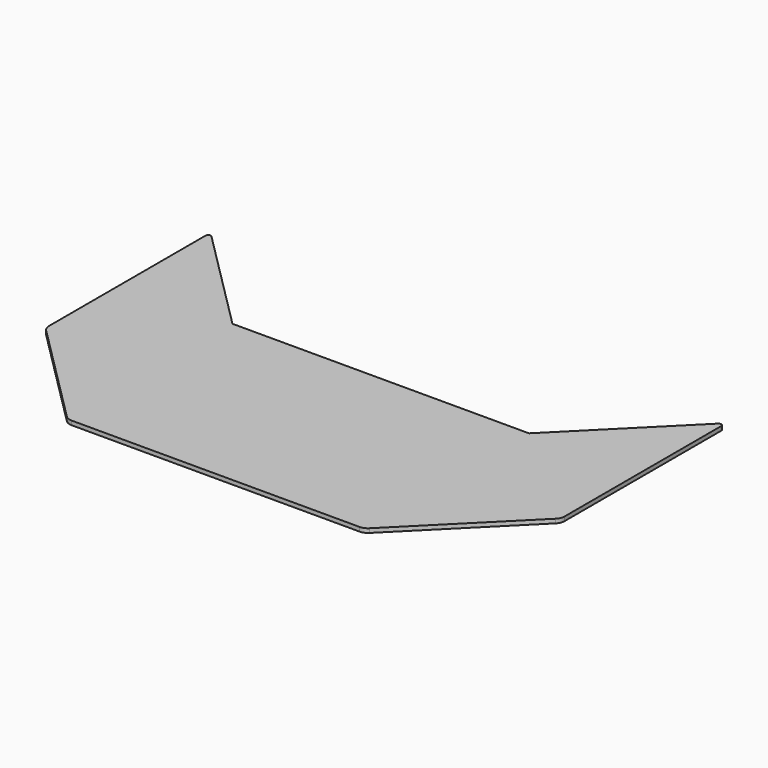
from build123d import *

# Parameters (mm, degrees)
F1_DEPTH = 8


with BuildPart() as f1:
    # F0 (on Top) → F1 (new body)
    with BuildSketch(Plane.XY):
        with BuildLine():
            Line((287.5, 200), (-287.5, 200))
            Line((-287.5, 200), (-491.464466, 403.964466))
            ThreePointArc((-491.464466, 403.964466), (-496.913417, 405.04833), (-500, 400.428932))
            Line((-500, 400.428932), (-500, 20.784271))
            ThreePointArc((-500, 20.784271), (-498.477591, 13.130603), (-494.142136, 6.642136))
            Line((-494.142136, 6.642136), (-293.357864, -194.142136))
            ThreePointArc((-293.357864, -194.142136), (-286.869397, -198.477591), (-279.215729, -200))
            Line((-279.215729, -200), (279.215729, -200))
            ThreePointArc((279.215729, -200), (286.869397, -198.477591), (293.357864, -194.142136))
            Line((293.357864, -194.142136), (494.142136, 6.642136))
            ThreePointArc((494.142136, 6.642136), (498.477591, 13.130603), (500, 20.784271))
            Line((500, 20.784271), (500, 400.428932))
            ThreePointArc((500, 400.428932), (496.913417, 405.04833), (491.464466, 403.964466))
            Line((491.464466, 403.964466), (287.5, 200))
        make_face()
    extrude(amount=F1_DEPTH)


solid = f1.part
